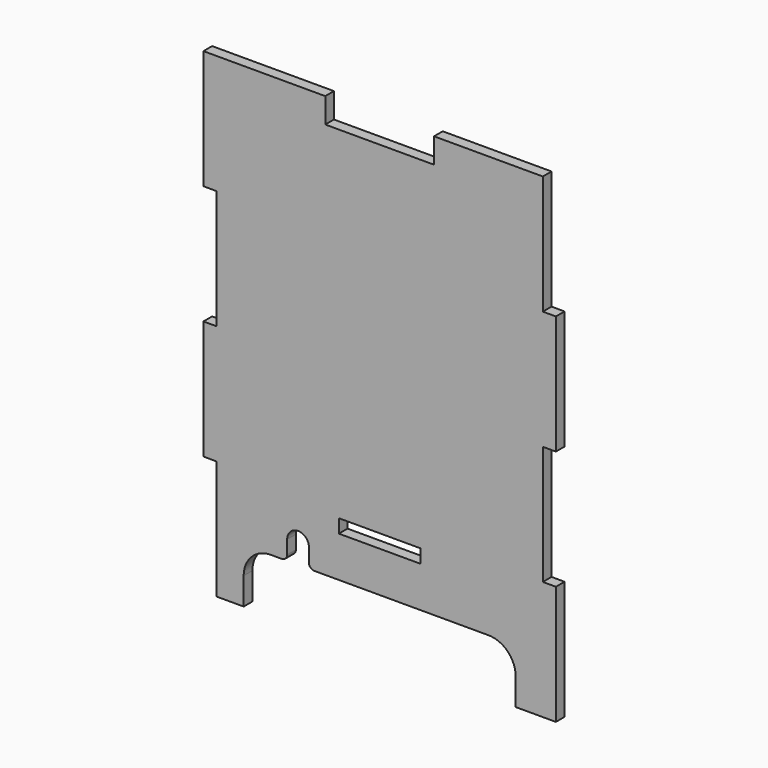
from build123d import *

# Parameters (mm, degrees)
F0_W     = 19.05
F0_H     = 3.175
F1_DEPTH = 2.54


with BuildPart() as f1:
    # F0 (on Front) → F1 (new body)
    with BuildSketch(Plane.XZ):
        with BuildLine():
            Line((16.417073, 63.773632), (3.717073, 63.773632))
            Line((3.717073, 63.773632), (-8.982927, 63.773632))
            Line((-8.982927, 63.773632), (-8.982927, 69.615632))
            Line((-8.982927, 69.615632), (-37.430927, 69.615632))
            Line((-37.430927, 69.615632), (-37.430927, 41.834382))
            Line((-37.430927, 41.834382), (-34.382927, 41.834382))
            Line((-34.382927, 41.834382), (-34.382927, 14.053132))
            Line((-34.382927, 14.053132), (-37.430927, 14.053132))
            Line((-37.430927, 14.053132), (-37.430927, -13.728118))
            Line((-37.430927, -13.728118), (-34.382927, -13.728118))
            Line((-34.382927, -13.728118), (-34.382927, -41.509368))
            Line((-34.382927, -41.509368), (-28.032927, -41.509368))
            Line((-28.032927, -41.509368), (-28.032927, -35.159368))
            ThreePointArc((-28.032927, -35.159368), (-26.173055, -30.66924), (-21.682927, -28.809368))
            Line((-21.682927, -28.809368), (-19.142927, -28.809368))
            ThreePointArc((-19.142927, -28.809368), (-18.244901, -28.437393), (-17.872927, -27.539368))
            Line((-17.872927, -27.539368), (-17.872927, -24.364368))
            ThreePointArc((-17.872927, -24.364368), (-15.332927, -21.824368), (-12.792927, -24.364368))
            Line((-12.792927, -24.364368), (-12.792927, -27.539368))
            ThreePointArc((-12.792927, -27.539368), (-12.420952, -28.437393), (-11.522927, -28.809368))
            Line((-11.522927, -28.809368), (29.117073, -28.809368))
            ThreePointArc((29.117073, -28.809368), (33.607201, -30.66924), (35.467073, -35.159368))
            Line((35.467073, -35.159368), (35.467073, -41.509368))
            Line((35.467073, -41.509368), (44.865073, -41.509368))
            Line((44.865073, -41.509368), (44.865073, -13.728118))
            Line((44.865073, -13.728118), (41.817073, -13.728118))
            Line((41.817073, -13.728118), (41.817073, 14.053132))
            Line((41.817073, 14.053132), (44.865073, 14.053132))
            Line((44.865073, 14.053132), (44.865073, 41.834382))
            Line((44.865073, 41.834382), (41.817073, 41.834382))
            Line((41.817073, 41.834382), (41.817073, 69.615632))
            Line((41.817073, 69.615632), (16.417073, 69.615632))
            Line((16.417073, 69.615632), (16.417073, 63.773632))
        make_face()
        with Locations((3.717073, -17.696868)):
            Rectangle(F0_W, F0_H, mode=Mode.SUBTRACT)
    extrude(amount=F1_DEPTH)


solid = f1.part
